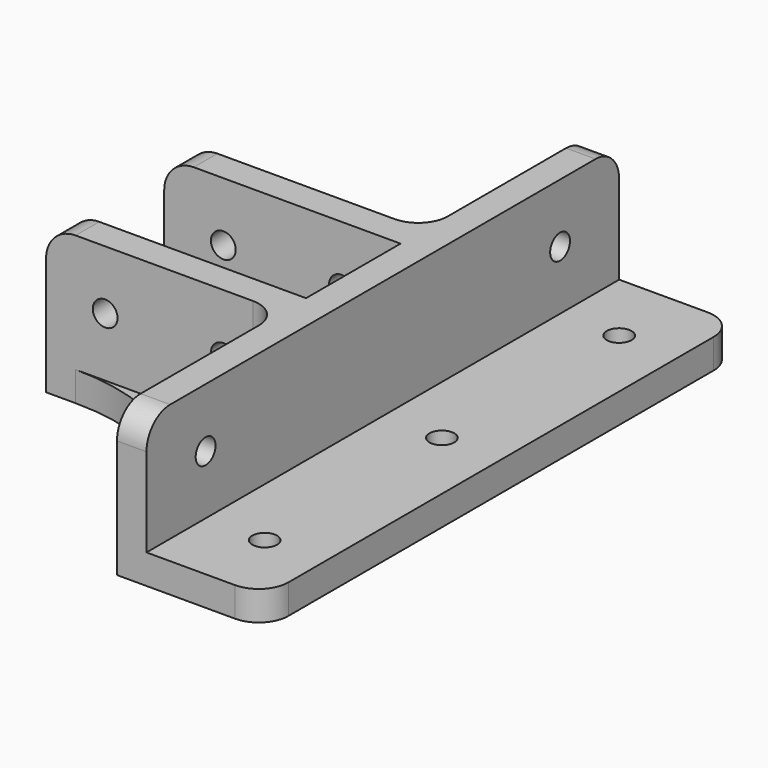
from build123d import *

# Parameters (mm, degrees)
F1_DEPTH   = 5
F3_DEPTH   = 20
F7_D       = 4.2
F7_ON_F5_D = 4.2
F7_ON_F4_D = 4.2
F8_R       = 5


with BuildPart() as f1:
    # F0 (on Top) → F1 (new body)
    with BuildSketch(Plane.XY):
        with BuildLine():
            Line((0, -50), (0, 0))
            Line((0, 0), (0, 50))
            Line((0, 50), (-25, 50))
            ThreePointArc((-25, 50), (-35.2512626585, 25.2512626585), (-60, 15))
            Line((-60, 15), (-65, 15))
            Line((-65, 15), (-65, 0))
            Line((-65, 0), (-65, -15))
            Line((-65, -15), (-60, -15))
            ThreePointArc((-60, -15), (-35.2512626585, -25.2512626585), (-25, -50))
            Line((-25, -50), (0, -50))
        make_face()
    extrude(amount=F1_DEPTH)

    # F2 (on face) → F3 (join)
    with BuildSketch(Plane.XY.offset(5)):
        Polygon((-20, 50), (-25, 50), (-25, 15), (-65, 15), (-65, 10), (-25, 10), (-25, -10), (-65, -10), (-65, -15), (-25, -15), (-25, -50), (-20, -50), align=None)
    extrude(amount=F3_DEPTH)

    # F7 (through all)
    with Locations(Plane.XY.offset(5)):
        with Locations((-10, -37.5), (-10, 0), (-10, 37.5)):
            Hole(F7_D / 2)

    # F7 on F5 (through all)
    with Locations(Plane(origin=(-25, 0, 0), x_dir=(0, -1, 0), z_dir=(-1, 0, 0))):
        with Locations((37.5, 15), (-37.5, 15)):
            Hole(F7_ON_F5_D / 2)

    # F7 on F4 (through all)
    with Locations(Plane.XZ.offset(15)):
        with Locations((-55, 15), (-35, 15)):
            Hole(F7_ON_F4_D / 2)

    # F8
    f8_edges = [f1.edges().sort_by_distance(p)[0] for p in [
        (-65, -12.5, 25),
        (-65, 12.5, 25),
        (-22.5, 50, 25),
        (-22.5, -50, 25),
        (0, -50, 2.5),
        (0, 50, 2.5),
        (-25, -15, 15),
        (-25, 15, 15),
    ]]
    fillet(f8_edges, radius=F8_R)


solid = f1.part
